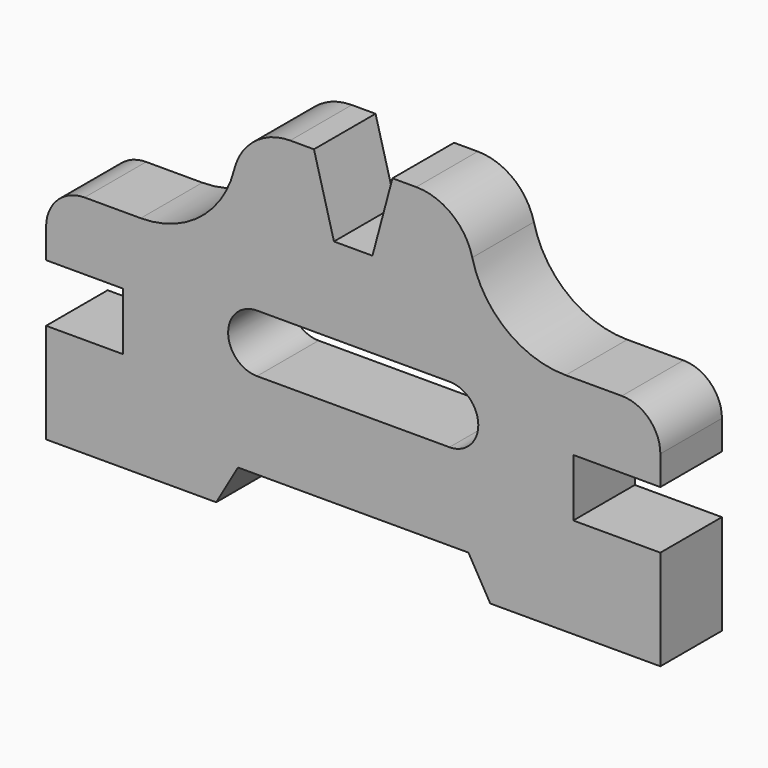
from build123d import *

# Parameters (mm, degrees)
F1_DEPTH = 25.4
F3_DEPTH = 25.4


with BuildPart() as f1:
    # F0 (on Front) → F1 (new body)
    with BuildSketch(Plane.XZ):
        with BuildLine():
            Line((60.532423, 0), (60.532423, 19.05))
            Line((60.532423, 19.05), (89.266929, 19.05))
            Line((89.266929, 19.05), (89.266929, 28.702))
            ThreePointArc((89.266929, 28.702), (85.547185, 37.682256), (76.566929, 41.402))
            Line((76.566929, 41.402), (58.024929, 41.402))
            ThreePointArc((58.024929, 41.402), (38.452915, 48.152025), (27.20289, 65.532))
            ThreePointArc((27.20289, 65.532), (20.452875, 75.959985), (8.709666, 80.01))
            Line((8.709666, 80.01), (0.872661, 80.01))
            Line((0.872661, 80.01), (-5.729071, 55.372))
            Line((-5.729071, 55.372), (-18.429071, 55.372))
            Line((-18.429071, 55.372), (-25.030803, 80.01))
            Line((-25.030803, 80.01), (-32.867808, 80.01))
            ThreePointArc((-32.867808, 80.01), (-44.611017, 75.959985), (-51.361032, 65.532))
            ThreePointArc((-51.361032, 65.532), (-62.611057, 48.152025), (-82.183071, 41.402))
            Line((-82.183071, 41.402), (-100.725071, 41.402))
            ThreePointArc((-100.725071, 41.402), (-109.705327, 37.682256), (-113.425071, 28.702))
            Line((-113.425071, 28.702), (-113.425071, 19.05))
            Line((-113.425071, 19.05), (-88.025071, 19.05))
            Line((-88.025071, 19.05), (-88.025071, 0))
            Line((-88.025071, 0), (-113.425071, 0))
            Line((-113.425071, 0), (-113.425071, -33.02))
            Line((-113.425071, -33.02), (-57.291071, -33.02))
            Line((-57.291071, -33.02), (-50.10537, -20.574))
            Line((-50.10537, -20.574), (25.947228, -20.574))
            Line((25.947228, -20.574), (33.132929, -33.02))
            Line((33.132929, -33.02), (89.266929, -33.02))
            Line((89.266929, -33.02), (89.266929, 0))
            Line((89.266929, 0), (60.532423, 0))
        make_face()
    extrude(amount=F1_DEPTH)

    # F2 (on face) + F0 (on Front) → F3 (cut)
    with BuildSketch(Plane.XZ.offset(25.4)):
        with BuildLine():
            Line((19.670929, 27.051), (-43.829071, 27.051))
            ThreePointArc((-43.829071, 27.051), (-53.354071, 17.526), (-43.829071, 8.001))
            Line((-43.829071, 8.001), (19.670929, 8.001))
            ThreePointArc((19.670929, 8.001), (29.195929, 17.526), (19.670929, 27.051))
        make_face()
    with BuildSketch(Plane.XZ):
        with BuildLine():
            Line((60.532423, 0), (60.532423, 19.05))
            Line((60.532423, 19.05), (89.266929, 19.05))
            Line((89.266929, 19.05), (89.266929, 28.702))
            ThreePointArc((89.266929, 28.702), (85.547185, 37.682256), (76.566929, 41.402))
            Line((76.566929, 41.402), (58.024929, 41.402))
            ThreePointArc((58.024929, 41.402), (38.452915, 48.152025), (27.20289, 65.532))
            ThreePointArc((27.20289, 65.532), (20.452875, 75.959985), (8.709666, 80.01))
            Line((8.709666, 80.01), (0.872661, 80.01))
            Line((0.872661, 80.01), (-5.729071, 55.372))
            Line((-5.729071, 55.372), (-18.429071, 55.372))
            Line((-18.429071, 55.372), (-25.030803, 80.01))
            Line((-25.030803, 80.01), (-32.867808, 80.01))
            ThreePointArc((-32.867808, 80.01), (-44.611017, 75.959985), (-51.361032, 65.532))
            ThreePointArc((-51.361032, 65.532), (-62.611057, 48.152025), (-82.183071, 41.402))
            Line((-82.183071, 41.402), (-100.725071, 41.402))
            ThreePointArc((-100.725071, 41.402), (-109.705327, 37.682256), (-113.425071, 28.702))
            Line((-113.425071, 28.702), (-113.425071, 19.05))
            Line((-113.425071, 19.05), (-88.025071, 19.05))
            Line((-88.025071, 19.05), (-88.025071, 0))
            Line((-88.025071, 0), (-113.425071, 0))
            Line((-113.425071, 0), (-113.425071, -33.02))
            Line((-113.425071, -33.02), (-57.291071, -33.02))
            Line((-57.291071, -33.02), (-50.10537, -20.574))
            Line((-50.10537, -20.574), (25.947228, -20.574))
            Line((25.947228, -20.574), (33.132929, -33.02))
            Line((33.132929, -33.02), (89.266929, -33.02))
            Line((89.266929, -33.02), (89.266929, 0))
            Line((89.266929, 0), (60.532423, 0))
        make_face()
    extrude(amount=-F3_DEPTH, mode=Mode.SUBTRACT)


solid = f1.part
